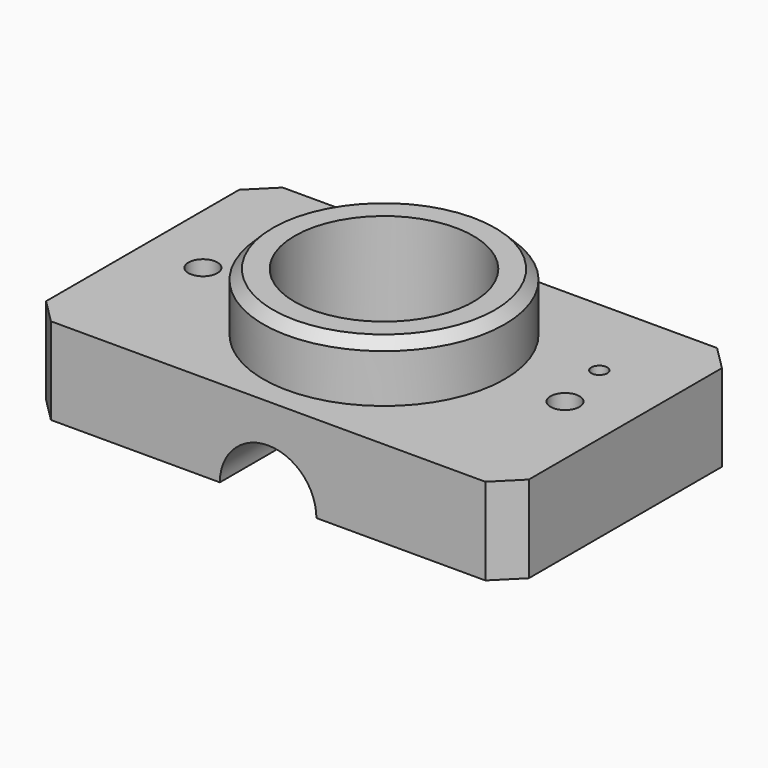
from build123d import *

# Parameters (mm, degrees)
F0_W      = 100
F0_H      = 60
F1_DEPTH  = 18
F2_R      = 25
F3_DEPTH  = 12
F4_SIZE   = 5
F5_SIZE   = 2
F7_D      = 37
F9_DEPTH  = 60.001
F11_D     = 6
F13_D     = 3.3
F13_DEPTH = 10.1
F13_TIP   = 0.9914200214


with BuildPart() as f1:
    # F0 (on Top) → F1 (new body)
    with BuildSketch(Plane.XY):
        Rectangle(F0_W, F0_H)
    extrude(amount=F1_DEPTH)

    # F2 (on face) → F3 (join)
    with BuildSketch(Plane.XY.offset(18)):
        Circle(F2_R)
    extrude(amount=F3_DEPTH)

    # F4
    f4_edges = [f1.edges().sort_by_distance(p)[0] for p in [
        (50, -30, 9),
        (-50, -30, 9),
        (-50, 30, 9),
        (50, 30, 9),
    ]]
    chamfer(f4_edges, length=F4_SIZE)

    # F5
    f5_edges = [f1.edges().sort_by_distance(p)[0] for p in [
        (-25, 0, 30),
    ]]
    chamfer(f5_edges, length=F5_SIZE)

    # F7 (through all)
    with Locations(Plane.XY.offset(30)):
        with Locations((0, 0)):
            Hole(F7_D / 2)

    # F8 (on face) → F9 (cut, through all)
    with BuildSketch(Plane.XZ.offset(30)):
        with BuildLine():
            ThreePointArc((-10, 0), (0, -10), (10, 0))
            Line((10, 0), (-10, 0))
        make_face()
        with BuildLine():
            Line((-10, 0), (10, 0))
            ThreePointArc((10, 0), (0, 10), (-10, 0))
        make_face()
    extrude(amount=-F9_DEPTH, mode=Mode.SUBTRACT)

    # F11 (through all)
    with Locations(Plane.XY.offset(18)):
        with Locations((37.5, 0), (-37.5, 0)):
            Hole(F11_D / 2)

    # F13
    with Locations(Plane.XY.offset(18)):
        with Locations((35, 12), (-35, 12)):
            Hole(F13_D / 2, depth=F13_DEPTH)
            with Locations((0, 0, -(F13_DEPTH + F13_TIP / 2))):  # 118° drill point
                Cone(0, F13_D / 2, F13_TIP, mode=Mode.SUBTRACT)


solid = f1.part
